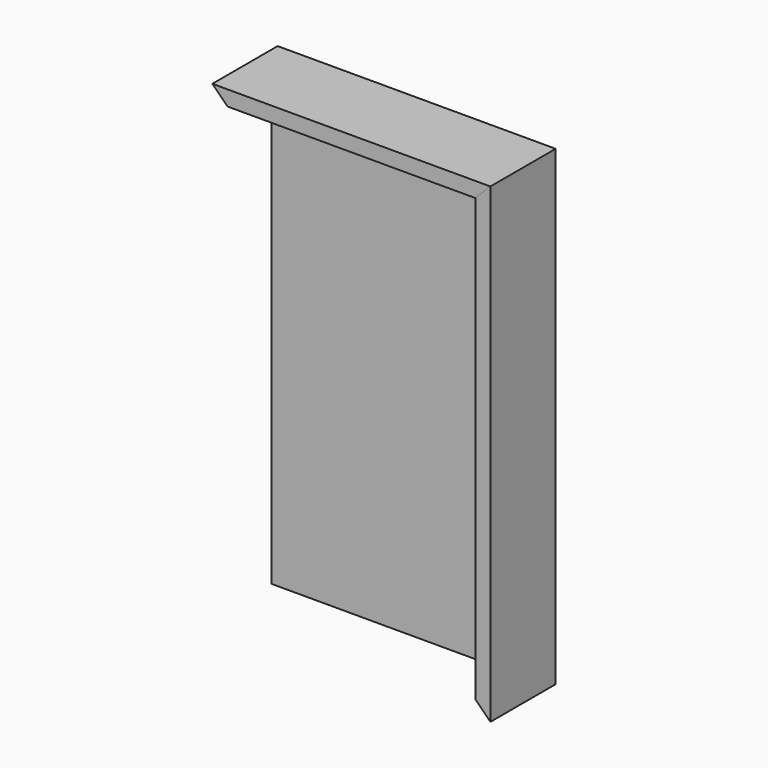
from build123d import *

# Parameters (mm, degrees)
F0_W      = 279.4
F0_H      = 482.6
F1_DEPTH  = 6.35
F3_DEPTH  = 76.2
F4_DEPTH  = 9.525
F5_W      = 4.7752
F5_H      = 473.075
F5_H_2    = 9.525
F6_DEPTH  = 6.35
F7_DEPTH  = 76.2
F8_DEPTH  = 9.525
F9_W      = 260.35
F9_H      = 4.7752
F10_DEPTH = 6.35


with BuildPart() as f1:
    # F0 (on Front) → F1 (new body)
    with BuildSketch(Plane.XZ):
        with Locations((139.7, -241.3)):
            Rectangle(F0_W, F0_H)
    extrude(amount=F1_DEPTH)


with BuildPart() as f3:
    # F2 (on Front) → F3 (new body)
    with BuildSketch(Plane.XZ):
        Polygon((279.4, 0), (269.875, -9.525), (269.875, -473.075), (279.4, -482.6), align=None)
        Polygon((285.75, 6.35), (279.4, 0), (279.4, -482.6), (285.75, -488.95), align=None)
    extrude(amount=F3_DEPTH)

    # F2 (on Front) → F4 (join)
    with BuildSketch(Plane.XZ):
        Polygon((285.75, 6.35), (279.4, 0), (279.4, -482.6), (285.75, -488.95), align=None)
    extrude(amount=-F4_DEPTH)

    # F5 (on face) → F6 (cut)
    with BuildSketch(Plane(origin=(269.875, 0, 0), x_dir=(0, -1, 0), z_dir=(-1, 0, 0))):
        with Locations((67.4624, -236.5375)):
            Rectangle(F5_W, F5_H)
        with Locations((67.4624, -477.8375)):
            Rectangle(F5_W, F5_H_2)
    extrude(amount=-F6_DEPTH, mode=Mode.SUBTRACT)


with BuildPart() as f7:
    # F2 (on Front) → F7 (new body)
    with BuildSketch(Plane.XZ):
        Polygon((9.525, -9.525), (269.875, -9.525), (279.4, 0), (0, 0), align=None)
        Polygon((0, 0), (279.4, 0), (285.75, 6.35), (-6.35, 6.35), align=None)
    extrude(amount=F7_DEPTH)

    # F2 (on Front) → F8 (join)
    with BuildSketch(Plane.XZ):
        Polygon((0, 0), (279.4, 0), (285.75, 6.35), (-6.35, 6.35), align=None)
    extrude(amount=-F8_DEPTH)

    # F9 (on face) → F10 (cut)
    with BuildSketch(Plane(origin=(0, 0, -9.525), x_dir=(1, 0, 0), z_dir=(0, 0, -1))):
        with Locations((139.7, 67.4624)):
            Rectangle(F9_W, F9_H)
        with Locations((139.7, 67.4624)):
            Rectangle(F9_W, F9_H)
        with Locations((139.7, 67.4624)):
            Rectangle(F9_W, F9_H)
    extrude(amount=-F10_DEPTH, mode=Mode.SUBTRACT)


solid = Compound([f1.part, f3.part, f7.part])
